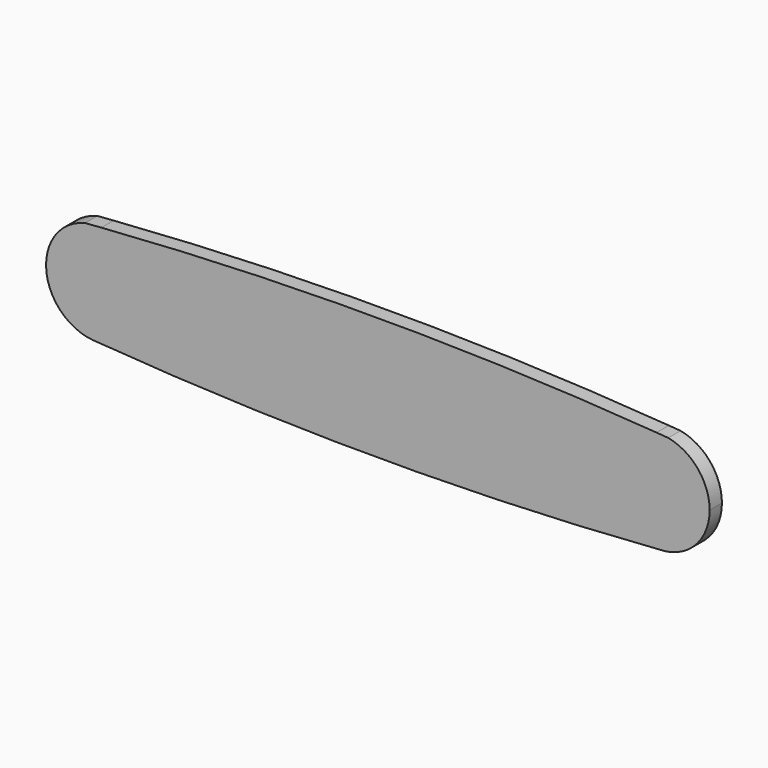
from build123d import *

# Parameters (mm, degrees)
F1_DEPTH = 20


with BuildPart() as f1:
    # F0 (on Front) → F1 (new body)
    with BuildSketch(Plane.XZ):
        with BuildLine():
            ThreePointArc((670.6236231078, 66.3387719466), (309.6652800425, 79.699666295), (-51.2863881664, 66.159646229))
            ThreePointArc((-51.2863881664, 66.159646229), (-7.9443574248, 44.95304923), (9.5906005169, 0))
            Line((9.5906005169, 0), (606.8129005169, 0))
            ThreePointArc((606.8129005169, 0), (625.3549203284, 46.0234749366), (670.6236231078, 66.3387719466))
        make_face()
        with BuildLine():
            ThreePointArc((9.5906005169, 0), (-11.5233416669, -48.5557630622), (-61.4352457375, -66.2267141723))
            ThreePointArc((-61.4352457375, -66.2267141723), (306.2183279395, -80.2613301697), (673.8779251557, -66.3854064699))
            ThreePointArc((673.8779251557, -66.3854064699), (626.4974201628, -47.1824642266), (606.8129005169, 0))
            Line((606.8129005169, 0), (9.5906005169, 0))
        make_face()
        with BuildLine():
            ThreePointArc((-51.2863881664, 66.159646229), (-61.8356743177, 65.3581420921), (-72.3831869864, 64.5336278799))
            ThreePointArc((-72.3831869864, 64.5336278799), (-122.9890910705, -5.1236602419), (-62.2662803124, -66.1632831952))
            ThreePointArc((-62.2662803124, -66.1632831952), (-61.8507643875, -66.195016535), (-61.4352457375, -66.2267141723))
            ThreePointArc((-61.4352457375, -66.2267141723), (-11.5233416669, -48.5557630622), (9.5906005169, 0))
            ThreePointArc((9.5906005169, 0), (-7.9443574248, 44.95304923), (-51.2863881664, 66.159646229))
        make_face()
        with BuildLine():
            ThreePointArc((685.7701519609, 65.1883017839), (678.1973379425, 65.7694667188), (670.6236231078, 66.3387719466))
            ThreePointArc((670.6236231078, 66.3387719466), (625.3549203284, 46.0234749366), (606.8129005169, 0))
            ThreePointArc((606.8129005169, 0), (626.4974201628, -47.1824642266), (673.8779251557, -66.3854064699))
            ThreePointArc((673.8779251557, -66.3854064699), (678.2691787155, -66.0505126994), (682.6601263672, -65.7116316233))
            ThreePointArc((682.6601263672, -65.7116316233), (723.3784886527, -43.4715349899), (739.5906005169, 0))
            ThreePointArc((739.5906005169, 0), (724.3968729532, 42.2674679045), (685.7701519609, 65.1883017839))
        make_face()
    extrude(amount=F1_DEPTH)


solid = f1.part
